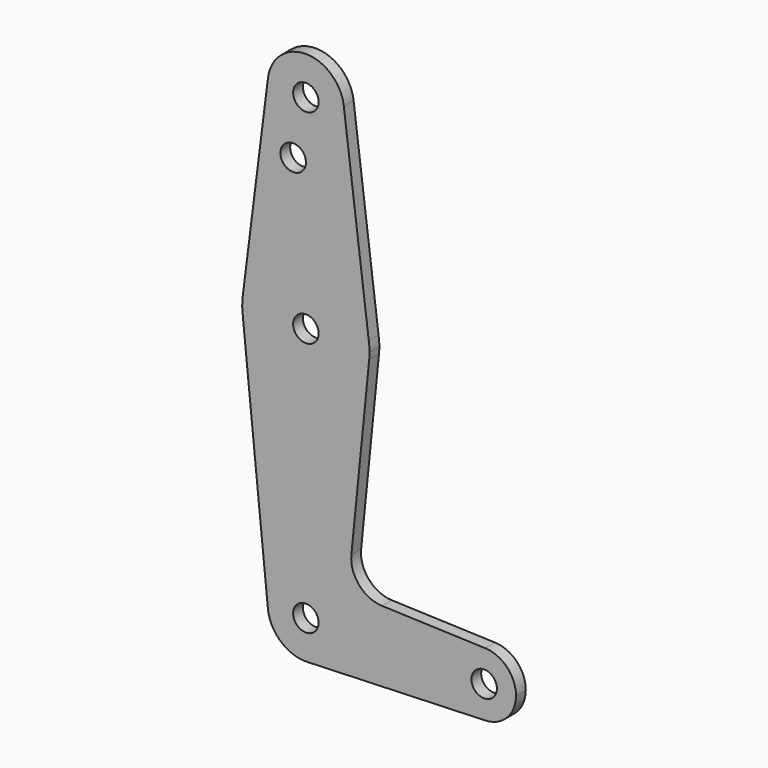
from build123d import *

# Parameters (mm, degrees)
F0_R     = 3.175
F1_DEPTH = 3.048


with BuildPart() as f1:
    # F0 (on Front) → F1 (new body)
    with BuildSketch(Plane.XZ):
        with BuildLine():
            ThreePointArc((9.450468, 115.489235), (0.0007, 123.825), (-9.450293, 115.490625))
            ThreePointArc((-9.450293, 115.490625), (-0.596483, 104.793695), (9.525, 114.3))
            ThreePointArc((9.525, 114.3), (9.506349, 114.895784), (9.450468, 115.489235))
        make_face()
        with Locations((0, 114.3)):
            Circle(F0_R, mode=Mode.SUBTRACT)
        with BuildLine():
            Line((-9.450293, 115.490625), (-15.750488, 65.484375))
            ThreePointArc((-15.750488, 65.484375), (-0.241393, 79.373165), (15.682863, 65.962401))
            Line((15.682863, 65.962401), (9.450468, 115.489235))
            ThreePointArc((9.450468, 115.489235), (9.506349, 114.895784), (9.525, 114.3))
            ThreePointArc((9.525, 114.3), (-0.596483, 104.793695), (-9.450293, 115.490625))
        make_face()
        with Locations((-3.175, 100.0252)):
            Circle(F0_R, mode=Mode.SUBTRACT)
        with BuildLine():
            ThreePointArc((-15.795426, 61.9125), (0, 47.625), (15.795426, 61.9125))
            ThreePointArc((15.795426, 61.9125), (15.855094, 62.705253), (15.875, 63.5))
            ThreePointArc((15.875, 63.5), (15.826893, 64.734943), (15.682863, 65.962401))
            ThreePointArc((15.682863, 65.962401), (-0.241393, 79.373165), (-15.750488, 65.484375))
            ThreePointArc((-15.750488, 65.484375), (-15.873744, 63.699705), (-15.795426, 61.9125))
        make_face()
        with Locations((0, 63.5)):
            Circle(F0_R, mode=Mode.SUBTRACT)
        with BuildLine():
            ThreePointArc((44.733482, -7.932436), (36.5125, 0), (44.733482, 7.932436))
            Line((44.733482, 7.932436), (18.9676, 8.853234))
            ThreePointArc((18.9676, 8.853234), (13.2612, 11.571359), (11.341187, 17.593382))
            Line((11.341187, 17.593382), (15.795426, 61.9125))
            ThreePointArc((15.795426, 61.9125), (0, 47.625), (-15.795426, 61.9125))
            Line((-15.795426, 61.9125), (-9.477255, -0.9525))
            ThreePointArc((-9.477255, -0.9525), (-0.476848, 9.513056), (9.525, 0))
            ThreePointArc((9.525, 0), (6.854408, -6.613827), (0.340179, -9.518923))
            Line((0.340179, -9.518923), (44.733482, -7.932436))
        make_face()
        with BuildLine():
            ThreePointArc((-9.477255, -0.9525), (-6.262383, -7.17692), (0.340179, -9.518923))
            ThreePointArc((0.340179, -9.518923), (6.854408, -6.613827), (9.525, 0))
            ThreePointArc((9.525, 0), (-0.476848, 9.513056), (-9.477255, -0.9525))
        make_face()
        Circle(F0_R, mode=Mode.SUBTRACT)
        with BuildLine():
            ThreePointArc((44.733482, -7.932436), (50.162007, -5.511523), (52.3875, 0))
            ThreePointArc((52.3875, 0), (50.162007, 5.511523), (44.733482, 7.932436))
            ThreePointArc((44.733482, 7.932436), (36.5125, 0), (44.733482, -7.932436))
        make_face()
        with Locations((44.45, 0)):
            Circle(F0_R, mode=Mode.SUBTRACT)
    extrude(amount=F1_DEPTH)


solid = f1.part
